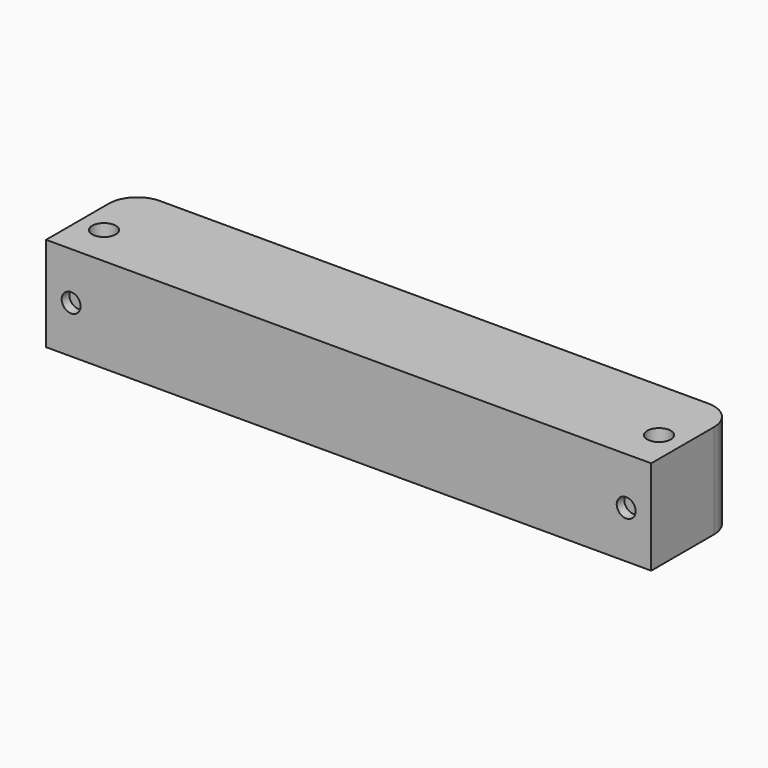
from build123d import *

# Parameters (mm, degrees)
SKETCH_W        = 64
SKETCH_H        = 11.3
PAD_DEPTH       = 10
SKETCH004_R     = 1
POCKET_DEPTH    = 1
SKETCH006_R     = 1.25
POCKET002_DEPTH = 10.001
FILLET001_R     = 3


with BuildPart() as part:
    # Sketch → Pad (new body)
    with BuildSketch(Plane.XY):
        with Locations((0, 5.65)):
            Rectangle(SKETCH_W, SKETCH_H)
    extrude(amount=PAD_DEPTH)

    # Sketch004 (on Face3 of Pad) → Pocket (cut)
    with BuildSketch(Plane.XZ):
        with Locations((29.35, 5)):
            Circle(SKETCH004_R)
        with Locations((-29.35, 5)):
            Circle(SKETCH004_R)
    extrude(amount=-POCKET_DEPTH, mode=Mode.SUBTRACT)

    # Sketch006 (on Face4 of Pocket) → Pocket002 (cut, through all)
    with BuildSketch(Plane(origin=(0, 0, 0), x_dir=(1, 0, 0), z_dir=(0, 0, -1))):
        with Locations((29.35, -4.35)):
            Circle(SKETCH006_R)
        with Locations((-29.35, -4.35)):
            Circle(SKETCH006_R)
    extrude(amount=-POCKET002_DEPTH, mode=Mode.SUBTRACT)

    # Fillet001
    fillet001_edges = [part.edges().sort_by_distance(p)[0] for p in [
        (-32, 11.3, 5),
        (32, 11.3, 5),
    ]]
    fillet(fillet001_edges, radius=FILLET001_R)


with BuildPart() as part_1:
    # Body placement: moved
    add(part.part.moved(Location((0, -3.84, 0))))


solid = part_1.part
